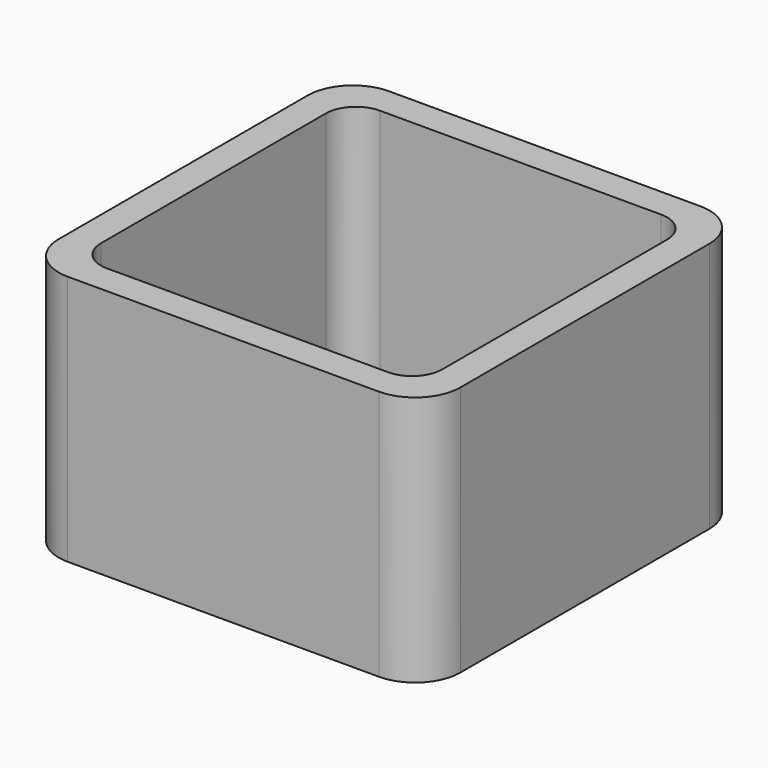
from build123d import *

# Parameters (mm, degrees)
EXTRUDE_DEPTH = 50


with BuildPart() as part:
    # Sketch → Extrude (new body)
    with BuildSketch(Plane.XY):
        with BuildLine():
            Line((-31, 40), (31, 40))
            ThreePointArc((40, 31), (37.363961, 37.363961), (31, 40))
            Line((40, 31), (40, -31))
            ThreePointArc((31, -40), (37.363961, -37.363961), (40, -31))
            Line((31, -40), (-31, -40))
            ThreePointArc((-40, -31), (-37.363961, -37.363961), (-31, -40))
            Line((-40, -31), (-40, 31))
            ThreePointArc((-31, 40), (-37.363961, 37.363961), (-40, 31))
        make_face()
        with BuildLine():
            Line((-28, 34), (28, 34))
            ThreePointArc((34, 28), (32.242641, 32.242641), (28, 34))
            Line((34, 28), (34, -28))
            ThreePointArc((28, -34), (32.242641, -32.242641), (34, -28))
            Line((28, -34), (-28, -34))
            ThreePointArc((-34, -28), (-32.242641, -32.242641), (-28, -34))
            Line((-34, -28), (-34, 28))
            ThreePointArc((-28, 34), (-32.242641, 32.242641), (-34, 28))
        make_face(mode=Mode.SUBTRACT)
    extrude(amount=EXTRUDE_DEPTH)


solid = part.part
